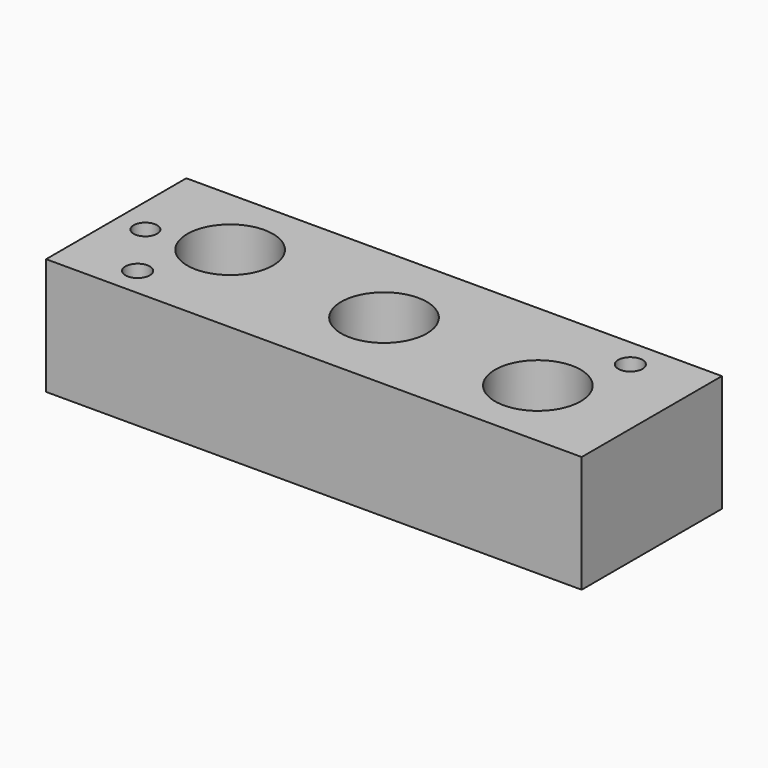
from build123d import *

# Parameters (mm, degrees)
F0_W     = 55
F0_H     = 18
F0_R     = 1.25
F0_R_2   = 4.4
F0_R_3   = 1.2
F1_DEPTH = 12


with BuildPart() as f1:
    # F0 (on Top) → F1 (new body)
    with BuildSketch(Plane.XY):
        Rectangle(F0_W, F0_H)
        with Locations((-20.5, -6)):
            Circle(F0_R, mode=Mode.SUBTRACT)
        with Locations((17, -1.5)):
            Circle(F0_R_2, mode=Mode.SUBTRACT)
        with Locations((-24.5, 0)):
            Circle(F0_R_3, mode=Mode.SUBTRACT)
        with Locations((-17, 1.5)):
            Circle(F0_R_2, mode=Mode.SUBTRACT)
        Circle(F0_R_2, mode=Mode.SUBTRACT)
        with Locations((20.5, 6)):
            Circle(F0_R, mode=Mode.SUBTRACT)
    extrude(amount=F1_DEPTH)


solid = f1.part
